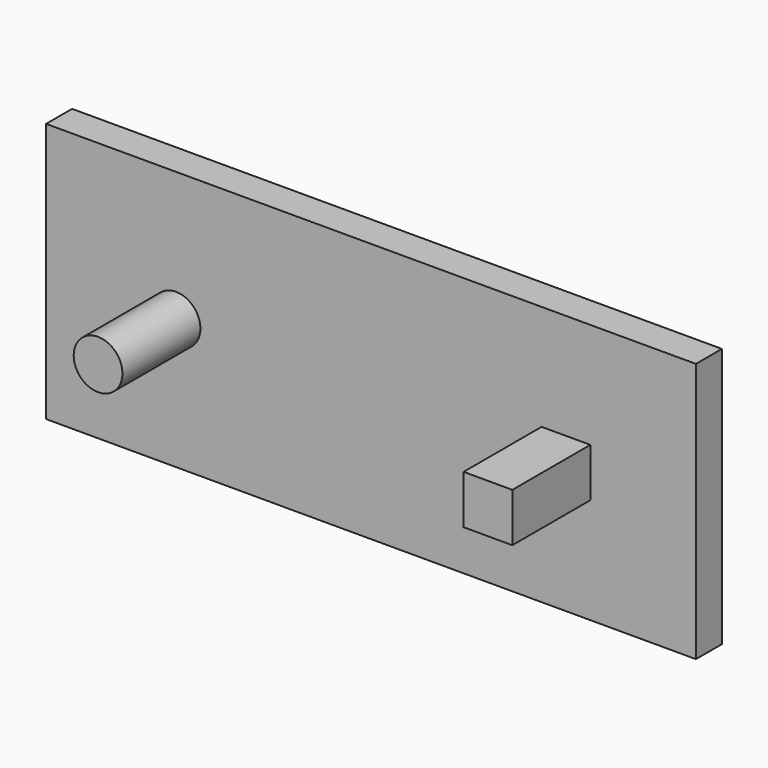
from build123d import *

# Parameters (mm, degrees)
F1_DEPTH = 25.4
F2_DEPTH = 6.35


with BuildPart() as f1:
    # F0 (on Front) → F1 (new body)
    with BuildSketch(Plane.XZ):
        with BuildLine():
            ThreePointArc((-23.883581, -4.7625), (-28.646081, 0), (-33.408581, -4.7625))
            ThreePointArc((-33.408581, -4.7625), (-28.646081, -9.525), (-23.883581, -4.7625))
        make_face()
        Polygon((52.316419, -9.525), (52.316419, -4.7625), (52.316419, 0), (42.791419, 0), (42.791419, -9.525), align=None)
    extrude(amount=F1_DEPTH)


with BuildPart() as f2:
    # F0 (on Front) → F2 (new body)
    with BuildSketch(Plane.XZ):
        Polygon((72.953919, 20.6375), (-54.046081, 20.6375), (-54.046081, -4.7625), (-54.046081, -30.1625), (72.953919, -30.1625), (72.953919, -4.7625), align=None)
        with BuildLine():
            ThreePointArc((-23.883581, -4.7625), (-28.646081, -9.525), (-33.408581, -4.7625))
            ThreePointArc((-33.408581, -4.7625), (-28.646081, 0), (-23.883581, -4.7625))
        make_face(mode=Mode.SUBTRACT)
        Polygon((52.316419, 0), (52.316419, -4.7625), (52.316419, -9.525), (42.791419, -9.525), (42.791419, 0), align=None, mode=Mode.SUBTRACT)
    extrude(amount=F2_DEPTH)


solid = Compound([f1.part, f2.part])
